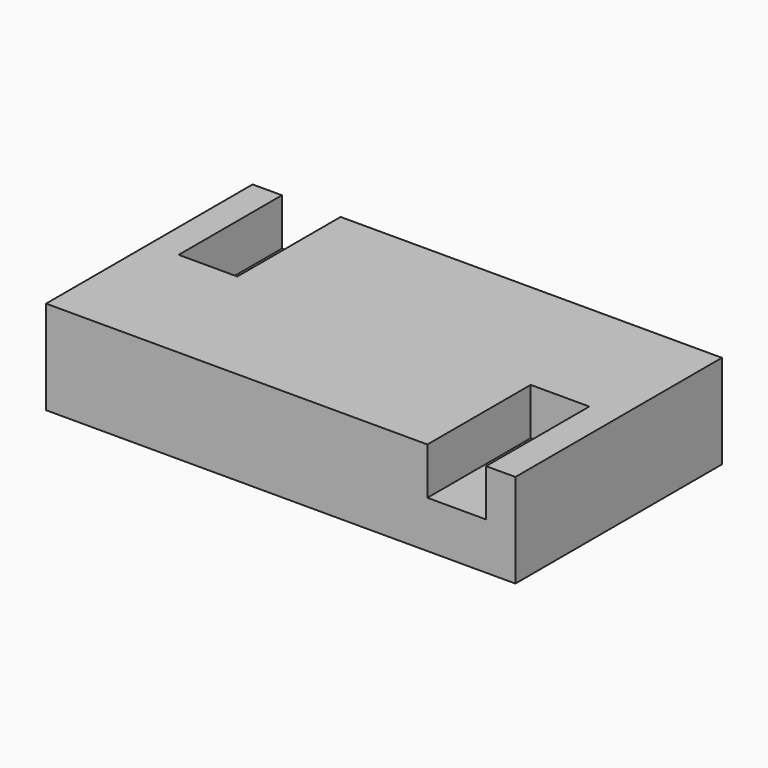
from build123d import *

# Parameters (mm, degrees)
F0_W     = 10
F0_H     = 22
F1_DEPTH = 16
F2_W     = 10
F2_H     = 22
F3_DEPTH = 8


with BuildPart() as f1:
    # F0 (on Top) → F1 (new body)
    with BuildSketch(Plane.XY):
        Polygon((-35, 0), (-35, 22), (-40, 22), (-40, -22), (-35, -22), align=None)
        with Locations((-30, 11)):
            Rectangle(F0_W, F0_H)
        with Locations((-30, -11)):
            Rectangle(F0_W, F0_H)
        Polygon((25, 0), (25, 22), (-25, 22), (-25, 0), (-25, -22), (25, -22), align=None)
        with Locations((30, 11)):
            Rectangle(F0_W, F0_H)
        with Locations((30, -11)):
            Rectangle(F0_W, F0_H)
        Polygon((40, -22), (40, 22), (35, 22), (35, 0), (35, -22), align=None)
    extrude(amount=F1_DEPTH)

    # F2 (on face) → F3 (cut)
    with BuildSketch(Plane.XY.offset(16)):
        with Locations((-30, 11)):
            Rectangle(F2_W, F2_H)
        with Locations((30, -11)):
            Rectangle(F2_W, F2_H)
    extrude(amount=-F3_DEPTH, mode=Mode.SUBTRACT)


solid = f1.part
